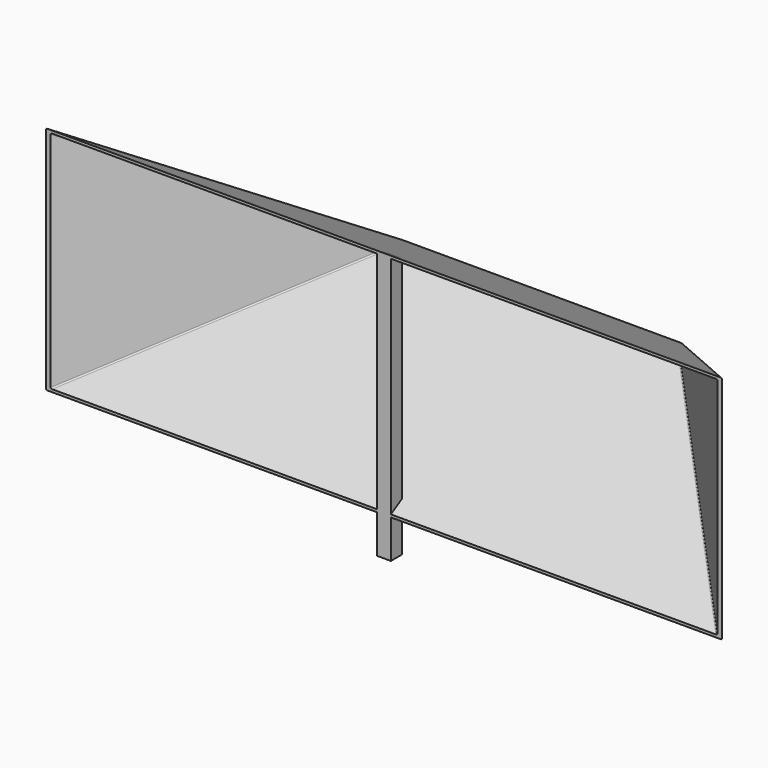
from build123d import *

# Parameters (mm, degrees)
EXTRUDE005_DEPTH          = 9
BOX002_W                  = 200
BOX002_H                  = 200
BOX002_DEPTH              = 200
BOX002_PLACEMENT_ANGLE    = 45
BOX003_W                  = 200
BOX003_H                  = 200
BOX003_DEPTH              = 200
BOX003_PLACEMENT_ANGLE    = 45
EXTRUDE004_DEPTH          = 440
FILLET002_R               = 1
FILLET003_R               = 1
FUSION001_PLACEMENT_ANGLE = 90


with BuildPart() as extrude005:
    # Sketch003 → Extrude005 (new body)
    with BuildSketch(Plane.XY):
        Polygon((-75, 0), (-69.803848, 9), (100, 9), (100, 0), align=None)
    extrude(amount=EXTRUDE005_DEPTH)


with BuildPart() as extrude005_1:
    # Extrude005 placement: moved
    add(extrude005.part.moved(Location((0, 0, 215.5))))


with BuildPart() as cube002:
    # Box002 → Box002 (new body)
    with BuildSketch(Plane.XY):
        with Locations((100, 100)):
            Rectangle(BOX002_W, BOX002_H)
    extrude(amount=BOX002_DEPTH)


with BuildPart() as cube002_1:
    # Box002 placement: moved
    add(cube002.part.moved(Location((-96, 139.726, 300.357))).rotate(Axis((-96, 139.726, 300.357), (1, 0, 0)), BOX002_PLACEMENT_ANGLE))


with BuildPart() as cube003:
    # Box003 → Box003 (new body)
    with BuildSketch(Plane.XY):
        with Locations((100, 100)):
            Rectangle(BOX003_W, BOX003_H)
    extrude(amount=BOX003_DEPTH)


with BuildPart() as cube003_1:
    # Box003 placement: moved
    add(cube003.part.moved(Location((-96, 141.421356, -141.421356))).rotate(Axis((-96, 141.421356, -141.421356), (1, 0, 0)), BOX003_PLACEMENT_ANGLE))


with BuildPart() as cut004:
    # Sketch004 → Extrude004 (new body)
    with BuildSketch(Plane.XY):
        Polygon((-75, 0), (0, 129.903811), (75, 0), align=None)
    extrude(amount=EXTRUDE004_DEPTH)

    # Cut003: cut Cube003
    add(cube003_1.part, mode=Mode.SUBTRACT)

    # Cut004: cut Cube002
    add(cube002_1.part, mode=Mode.SUBTRACT)


with BuildPart() as fillet002:
    # Fillet002 base: copy of Cut004
    add(cut004.part)

    # Fillet002
    fillet002_edges = [fillet002.edges().sort_by_distance(p)[0] for p in [
        (-37.5, 64.951905, 64.951905),
        (0, 129.903811, 220.0415),
        (-37.47604, 64.993405, 375.089595),
        (37.5, 64.951905, 64.951905),
        (37.47604, 64.993405, 375.089595),
    ]]
    fillet(fillet002_edges, radius=FILLET002_R)


with BuildPart() as fillet002_1:
    # Fillet002 placement: moved
    add(fillet002.part.moved(Location((0, -3, 0))))


with BuildPart() as fusion001:
    # Fillet003 base: copy of Cut004
    add(cut004.part)

    # Fillet003
    fillet003_edges = [fusion001.edges().sort_by_distance(p)[0] for p in [
        (-37.5, 64.951905, 64.951905),
        (0, 129.903811, 220.0415),
        (-37.47604, 64.993405, 375.089595),
        (37.5, 64.951905, 64.951905),
        (37.47604, 64.993405, 375.089595),
    ]]
    fillet(fillet003_edges, radius=FILLET003_R)

    # Cut005: cut Fillet002
    add(fillet002_1.part, mode=Mode.SUBTRACT)

    # Fusion001: union Extrude005
    add(extrude005_1.part)


with BuildPart() as fusion001_1:
    # Fusion001 placement: moved
    add(fusion001.part.moved(Location((-105.5, -15.92, 333))).rotate(Axis((-105.5, -15.92, 333), (0, 1, 0)), FUSION001_PLACEMENT_ANGLE))


solid = fusion001_1.part
